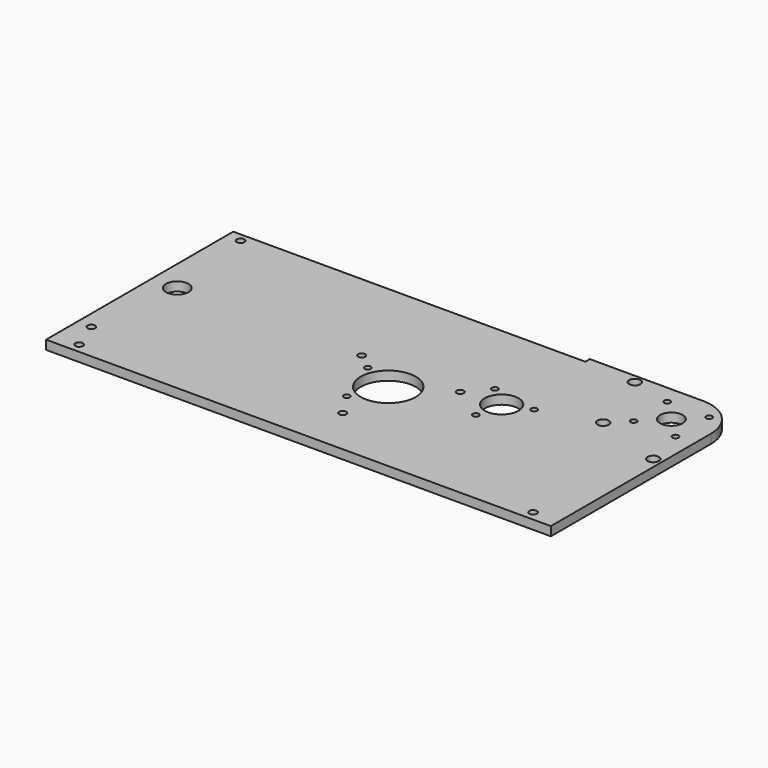
from build123d import *

# Parameters (mm, degrees)
F0_R     = 2.15265
F0_R_2   = 1.7272
F0_R_3   = 2
F0_R_4   = 15.497899
F0_R_5   = 6.35
F0_R_6   = 9.525
F0_R_7   = 3.175
F1_DEPTH = 5.08


with BuildPart() as f1:
    # F0 (on Top) → F1 (new body)
    with BuildSketch(Plane.XY):
        with BuildLine():
            Line((-261.733056, 19.05), (-261.733056, -112.545774))
            Line((-261.733056, -112.545774), (22.225, -112.545774))
            Line((22.225, -112.545774), (22.225, -101.750774))
            Line((22.225, -101.750774), (22.225, 0))
            ThreePointArc((22.225, 0), (15.715448, 15.715448), (0, 22.225))
            Line((0, 22.225), (-63.674803, 22.225))
            Line((-63.674803, 22.225), (-63.674803, 19.05))
            Line((-63.674803, 19.05), (-261.733056, 19.05))
        make_face()
        with Locations((-247.445556, -107.148274)):
            Circle(F0_R, mode=Mode.SUBTRACT)
        with Locations((-253.795556, -90.638274)):
            Circle(F0_R, mode=Mode.SUBTRACT)
        with Locations((-124.9059, -72.042304)):
            Circle(F0_R_2, mode=Mode.SUBTRACT)
        with Locations((-116.343486, -85.680147)):
            Circle(F0_R_3, mode=Mode.SUBTRACT)
        with Locations((7.9375, -107.148274)):
            Circle(F0_R, mode=Mode.SUBTRACT)
        with Locations((-116.343486, -53.680147)):
            Circle(F0_R_4, mode=Mode.SUBTRACT)
        with Locations((-69.566983, -50.553848)):
            Circle(F0_R_2, mode=Mode.SUBTRACT)
        with Locations((-247.445556, -38.175387)):
            Circle(F0_R_5, mode=Mode.SUBTRACT)
        with Locations((-144.056299, -37.680147)):
            Circle(F0_R_3, mode=Mode.SUBTRACT)
        with Locations((-134.705643, -45.117733)):
            Circle(F0_R_2, mode=Mode.SUBTRACT)
        with Locations((-253.795556, 14.2875)):
            Circle(F0_R, mode=Mode.SUBTRACT)
        with Locations((-88.630673, -37.680147)):
            Circle(F0_R_3, mode=Mode.SUBTRACT)
        with Locations((-66.948152, -35.701716)):
            Circle(F0_R_6, mode=Mode.SUBTRACT)
        with Locations((-52.776412, -30.543624)):
            Circle(F0_R_2, mode=Mode.SUBTRACT)
        with Locations((-78.501059, -26.007675)):
            Circle(F0_R_2, mode=Mode.SUBTRACT)
        with Locations((17.4625, -34.548124)):
            Circle(F0_R_7, mode=Mode.SUBTRACT)
        with Locations((-21.328108, -21.328108)):
            Circle(F0_R_7, mode=Mode.SUBTRACT)
        with Locations((-11.786586, -11.786586)):
            Circle(F0_R_2, mode=Mode.SUBTRACT)
        with Locations((11.786586, -11.786586)):
            Circle(F0_R_2, mode=Mode.SUBTRACT)
        Circle(F0_R_5, mode=Mode.SUBTRACT)
        with Locations((-34.548124, 17.4625)):
            Circle(F0_R_7, mode=Mode.SUBTRACT)
        with Locations((-11.786586, 11.786586)):
            Circle(F0_R_2, mode=Mode.SUBTRACT)
        with Locations((11.786586, 11.786586)):
            Circle(F0_R_2, mode=Mode.SUBTRACT)
    extrude(amount=F1_DEPTH)


solid = f1.part
